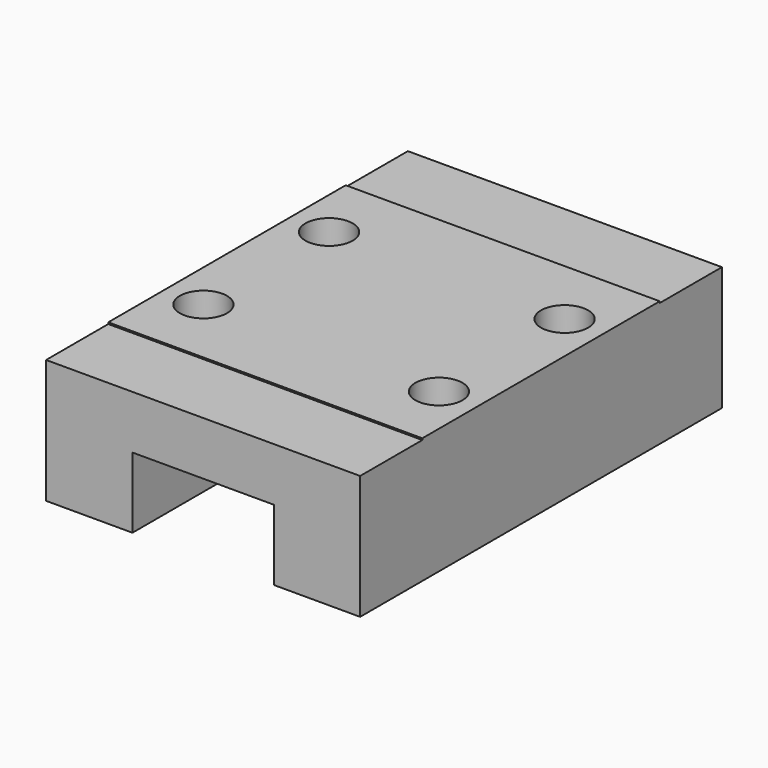
from build123d import *

# Parameters (mm, degrees)
SKETCH013_W     = 20
SKETCH013_H     = 28.8
PAD004_DEPTH    = 8
SKETCH014_W     = 9
SKETCH014_H     = 4.5
POCKET006_DEPTH = 28.8
SKETCH015_R     = 1.5
POCKET007_DEPTH = 4
SKETCH012_W     = 20
SKETCH012_H     = 4.95
POCKET008_DEPTH = 0.1


with BuildPart() as part:
    # Sketch013 → Pad004 (new body)
    with BuildSketch(Plane.XY):
        with Locations((-4.5, 14.4)):
            Rectangle(SKETCH013_W, SKETCH013_H)
    extrude(amount=PAD004_DEPTH)

    # Sketch014 (on Face1 of Pad004) → Pocket006 (cut)
    with BuildSketch(Plane.XZ):
        with Locations((-4.5, 2.25)):
            Rectangle(SKETCH014_W, SKETCH014_H)
    extrude(amount=-POCKET006_DEPTH, mode=Mode.SUBTRACT)

    # Sketch015 (on Face8 of Pocket006) → Pocket007 (cut)
    with BuildSketch(Plane.XY.offset(8)):
        with Locations((-12, 19.4)):
            Circle(SKETCH015_R)
        with Locations((3, 9.4)):
            Circle(SKETCH015_R)
        with Locations((-12, 9.4)):
            Circle(SKETCH015_R)
        with Locations((3, 19.4)):
            Circle(SKETCH015_R)
    extrude(amount=-POCKET007_DEPTH, mode=Mode.SUBTRACT)

    # Sketch012 (on Face8 of Pocket007) → Pocket008 (cut)
    with BuildSketch(Plane.XY.offset(8)):
        with Locations((-4.5, 26.325)):
            Rectangle(SKETCH012_W, SKETCH012_H)
        with Locations((-4.5, 2.475)):
            Rectangle(SKETCH012_W, SKETCH012_H)
    extrude(amount=-POCKET008_DEPTH, mode=Mode.SUBTRACT)


with BuildPart() as part_1:
    # Body005 placement: moved
    add(part.part.moved(Location((0, 100, 2))))


solid = part_1.part
